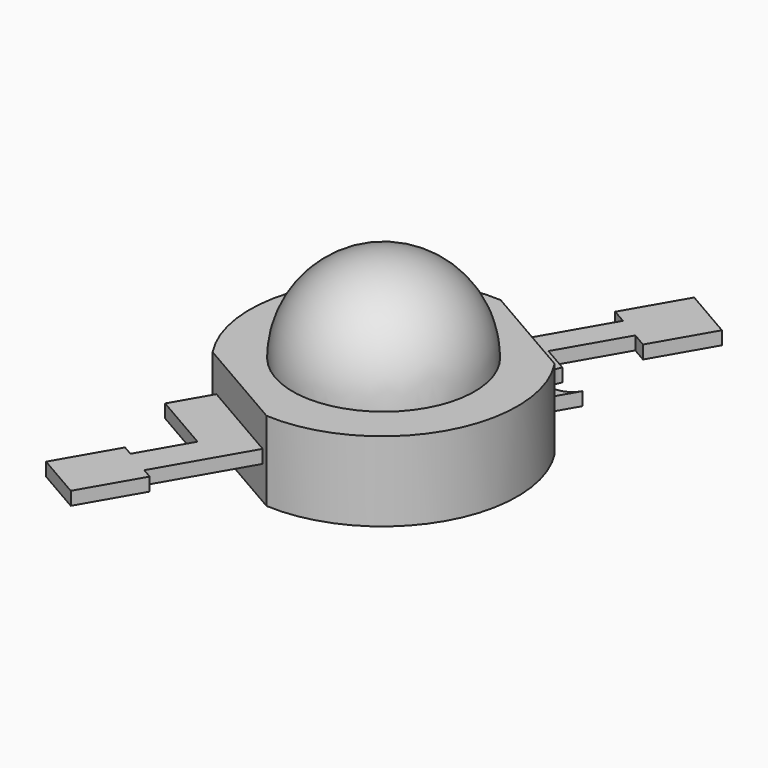
from build123d import *

# Parameters (mm, degrees)
REVOLUTION006_ANGLE       = -180
PAD029_DEPTH              = 0.4
BODY028_PLACEMENT_ANGLE   = 180
PAD028_DEPTH              = 2.4
FUSION007_PLACEMENT_ANGLE = 60


with BuildPart() as light006:
    # Sketch044 (on Face1 of ShapeBinder013) → Revolution006 (revolve)
    with BuildSketch(Plane.XY.offset(2.4)):
        with BuildLine():
            ThreePointArc((-2.75, 0), (0, -2.75), (2.75, 0))
            Line((-2.75, 0), (2.75, 0))
        make_face()
    revolve(axis=Axis((-2.75, 0, 2.4), (1, 0, 0)), revolution_arc=REVOLUTION006_ANGLE)


with BuildPart() as body028:
    # Sketch045 (on Face1 of ShapeBinder014) → Pad029 (new body)
    with BuildSketch(Plane(origin=(0, 0, 0), x_dir=(1, 0, 0), z_dir=(0, 0, -1))):
        with BuildLine():
            Line((3.65, 1.5), (6.65, 1.5))
            Line((6.65, 1.5), (6.65, 2))
            Line((6.65, 2), (8.65, 2))
            Line((8.65, 2), (8.65, 0.2))
            Line((8.65, 0.2), (6.65, 0.2))
            Line((6.65, 0.2), (6.65, 0.7))
            Line((6.65, 0.7), (4.45, 0.7))
            Line((4.45, 0.7), (4.45, -0.2))
            ThreePointArc((4.45, -0.2), (3.8, -0.85), (4.45, -1.5))
            Line((4.45, -1.5), (-6.65, -1.5))
            Line((-6.65, -1.5), (-6.65, -1.85))
            Line((-6.65, -1.85), (-8.65, -1.85))
            Line((-8.65, -1.85), (-8.65, -0.25))
            Line((-8.65, -0.25), (-6.65, -0.25))
            Line((-6.65, -0.25), (-6.65, -0.6))
            Line((-6.65, -0.6), (-4.95, -0.6))
            Line((-4.95, -0.6), (-4.95, 1.5))
            Line((-4.95, 1.5), (3.65, 1.5))
        make_face()
    extrude(amount=-PAD029_DEPTH)


with BuildPart() as body028_1:
    # Body028 placement: moved
    add(body028.part.moved(Location((0, 0, 1.4))).rotate(Axis((0, 0, 1.4), (1, 0, 0)), BODY028_PLACEMENT_ANGLE))


with BuildPart() as led1:
    # Sketch043 → Pad028 (new body)
    with BuildSketch(Plane.XY):
        with BuildLine():
            Line((-3.65, 1.75), (-3.65, -1.75))
            ThreePointArc((-3.65, -1.75), (0, -4), (3.65, -1.75))
            Line((3.65, 1.75), (3.65, -1.75))
            ThreePointArc((3.65, 1.75), (0, 4), (-3.65, 1.75))
        make_face()
    extrude(amount=PAD028_DEPTH)

    # Fusion007: union light006, Body028
    add(light006.part)
    add(body028_1.part)


with BuildPart() as led1_1:
    # Fusion007 placement: moved
    add(led1.part.moved(Location((0, 0, -1.5))).rotate(Axis((0, 0, -1.5), (0, 0, 1)), FUSION007_PLACEMENT_ANGLE))


solid = led1_1.part
